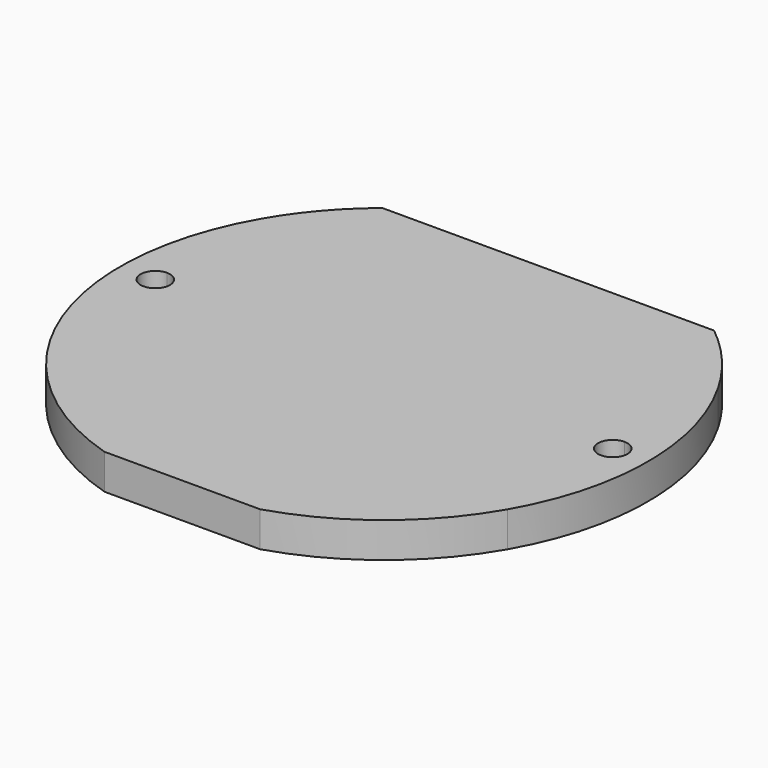
from build123d import *

# Parameters (mm, degrees)
F1_DEPTH = 3


with BuildPart() as f1:
    # F0 (on Top) → F1 (new body)
    with BuildSketch(Plane.XY):
        with BuildLine():
            Line((17.2046505341, 14.5), (-17.2046505341, 14.5))
            ThreePointArc((-17.2046505341, 14.5), (-18.4252352643, 12.9135860804), (-19.5, 11.2249721603))
            Line((-19.5, 11.2249721603), (-19.5, 1.25))
            ThreePointArc((-19.5, 1.25), (-18.6161165235, 0.8838834765), (-18.25, 0))
            ThreePointArc((-18.25, 0), (-18.6161165235, -0.8838834765), (-19.5, -1.25))
            Line((-19.5, -1.25), (-19.5, -11.2249721603))
            ThreePointArc((-19.5, -11.2249721603), (-14.0403252344, -17.5817879441), (-6.6332495807, -21.5))
            Line((-6.6332495807, -21.5), (6.6332495807, -21.5))
            ThreePointArc((6.6332495807, -21.5), (14.0403252344, -17.5817879441), (19.5, -11.2249721603))
            Line((19.5, -11.2249721603), (19.5, -1.25))
            ThreePointArc((19.5, -1.25), (18.25, 0), (19.5, 1.25))
            Line((19.5, 1.25), (19.5, 11.2249721603))
            ThreePointArc((19.5, 11.2249721603), (18.4252352643, 12.9135860804), (17.2046505341, 14.5))
        make_face()
        with BuildLine():
            Line((14.1421356237, 17.5), (-14.1421356237, 17.5))
            ThreePointArc((-14.1421356237, 17.5), (-15.7450071644, 16.0731064015), (-17.2046505341, 14.5))
            Line((-17.2046505341, 14.5), (17.2046505341, 14.5))
            ThreePointArc((17.2046505341, 14.5), (15.7450071644, 16.0731064015), (14.1421356237, 17.5))
        make_face()
        with BuildLine():
            Line((-19.5, 1.25), (-19.5, 11.2249721603))
            ThreePointArc((-19.5, 11.2249721603), (-22.5, 0), (-19.5, -11.2249721603))
            Line((-19.5, -11.2249721603), (-19.5, -1.25))
            ThreePointArc((-19.5, -1.25), (-20.75, 0), (-19.5, 1.25))
        make_face()
        with BuildLine():
            ThreePointArc((19.5, -11.2249721603), (22.5, 0), (19.5, 11.2249721603))
            Line((19.5, 11.2249721603), (19.5, 1.25))
            ThreePointArc((19.5, 1.25), (20.3838834765, 0.8838834765), (20.75, 0))
            ThreePointArc((20.75, 0), (20.3838834765, -0.8838834765), (19.5, -1.25))
            Line((19.5, -1.25), (19.5, -11.2249721603))
        make_face()
    extrude(amount=F1_DEPTH)


solid = f1.part
